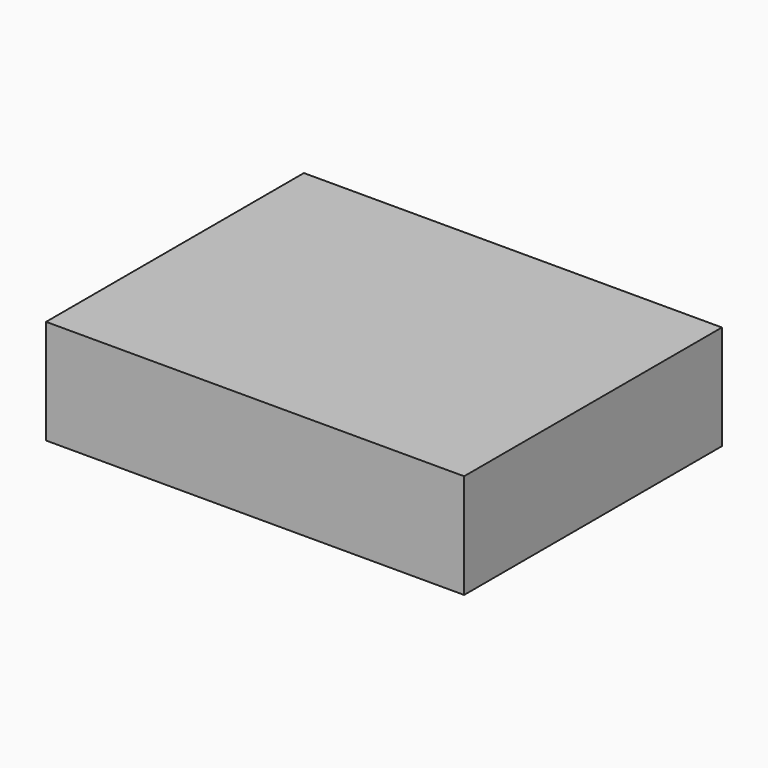
from build123d import *

# Parameters (mm, degrees)
EXTRUDE003_DEPTH           = 20
EXTRUDE003_PLACEMENT_ANGLE = 300
BOX005_W                   = 48
BOX005_H                   = 12
BOX005_DEPTH               = 37
CUT_PLACEMENT_ANGLE        = 90


with BuildPart() as extrude003:
    # Sketch001 (on Box) → Extrude003 (new body)
    with BuildSketch(Plane.XZ):
        with BuildLine():
            ThreePointArc((7.277422, 6.106482), (0, 9.5), (-7.277422, 6.106482))
            Line((-7.277422, 6.106482), (-5.1708, 4.338816))
            ThreePointArc((5.1708, 4.338816), (0, 6.75), (-5.1708, 4.338816))
            Line((5.1708, 4.338816), (7.277422, 6.106482))
        make_face()
        with BuildLine():
            ThreePointArc((-8.92708, 3.249192), (-8.227241, -4.75), (-1.649658, -9.355674))
            Line((-1.172125, -6.647452), (-1.649658, -9.355674))
            ThreePointArc((-6.342925, 2.308636), (-5.845671, -3.375), (-1.172125, -6.647452))
            Line((-8.92708, 3.249192), (-6.342925, 2.308636))
        make_face()
        with BuildLine():
            ThreePointArc((1.649658, -9.355674), (8.227241, -4.75), (8.92708, 3.249192))
            Line((6.342925, 2.308636), (8.92708, 3.249192))
            ThreePointArc((1.172125, -6.647452), (5.845671, -3.375), (6.342925, 2.308636))
            Line((1.172125, -6.647452), (1.649658, -9.355674))
        make_face()
    extrude(amount=EXTRUDE003_DEPTH)


with BuildPart() as extrude003_1:
    # Extrude003 placement: moved
    add(extrude003.part.moved(Location((12.4, 2.6, 25.087942))).rotate(Axis((12.4, 2.6, 25.087942), (0, -1, 0)), EXTRUDE003_PLACEMENT_ANGLE))


with BuildPart() as cut:
    # Box005 → Box005 (new body)
    with BuildSketch(Plane.XY):
        with Locations((24, 6)):
            Rectangle(BOX005_W, BOX005_H)
    extrude(amount=BOX005_DEPTH)

    # Cut: cut Extrude003
    add(extrude003_1.part, mode=Mode.SUBTRACT)


with BuildPart() as cut_1:
    # Cut placement: moved
    add(cut.part.moved(Location((-26, 37, 0))).rotate(Axis((-26, 37, 0), (1, 0, 0)), CUT_PLACEMENT_ANGLE))


solid = cut_1.part
